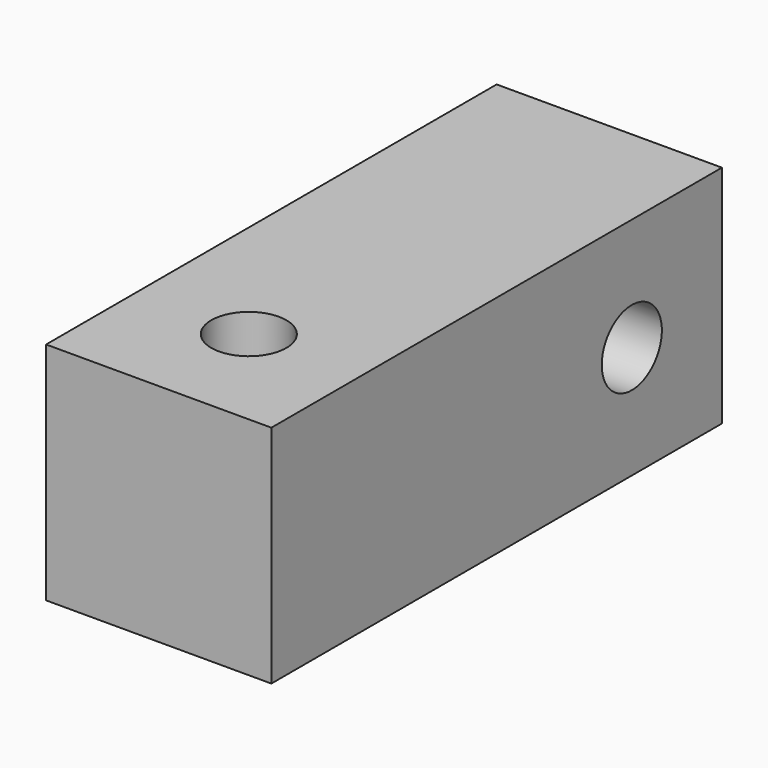
from build123d import *

# Parameters (mm, degrees)
F0_W       = 24
F0_H       = 24
F1_DEPTH   = 60
F4_D       = 8
F4_ON_F2_D = 8


with BuildPart() as f1:
    # F0 (on Front) → F1 (new body)
    with BuildSketch(Plane.XZ):
        Rectangle(F0_W, F0_H)
    extrude(amount=F1_DEPTH)

    # F4 (through all)
    with Locations(Plane.YZ.offset(12)):
        with Locations((-12, 0)):
            Hole(F4_D / 2)

    # F4 on F2 (through all)
    with Locations(Plane(origin=(0, 0, -12), x_dir=(1, 0, 0), z_dir=(0, 0, -1))):
        with Locations((0, 48)):
            Hole(F4_ON_F2_D / 2)


solid = f1.part
